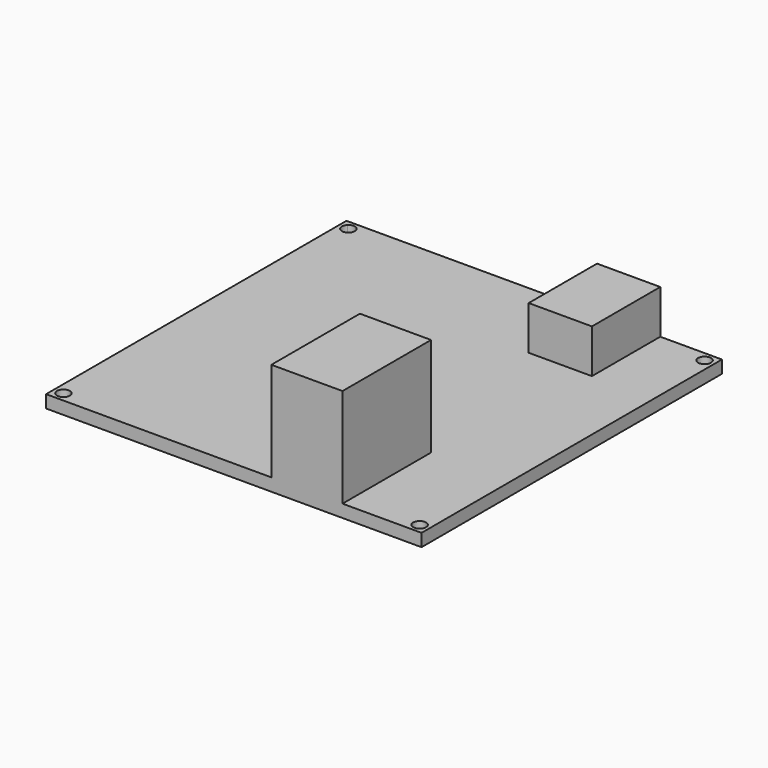
from build123d import *

# Parameters (mm, degrees)
F0_W     = 47.5
F0_H     = 47.5
F1_DEPTH = 1.6
F2_W     = 9
F2_H     = 14
F3_DEPTH = 12.54
F2_W_2   = 8
F2_H_2   = 10.806212
F4_DEPTH = 5.54
F2_R     = 0.815
F5_DEPTH = 1.6


with BuildPart() as f1:
    # F0 (on Top) → F1 (new body)
    with BuildSketch(Plane.XY):
        Rectangle(F0_W, F0_H)
    extrude(amount=F1_DEPTH)

    # F2 (on face) → F3 (join)
    with BuildSketch(Plane.XY.offset(1.6)):
        with Locations((9.25, -16.75)):
            Rectangle(F2_W, F2_H)
    extrude(amount=F3_DEPTH)

    # F2 (on face) → F4 (join)
    with BuildSketch(Plane.XY.offset(1.6)):
        with Locations((11.95, 18.346894)):
            Rectangle(F2_W_2, F2_H_2)
    extrude(amount=F4_DEPTH)

    # F2 (on face) → F5 (cut)
    with BuildSketch(Plane.XY.offset(1.6)):
        with Locations((-22.53, -22.53)):
            Circle(F2_R)
        with Locations((22.53, -22.53)):
            Circle(F2_R)
        with Locations((22.53, 22.53)):
            Circle(F2_R)
        with BuildLine():
            ThreePointArc((-21.715, 22.53), (-22.216277, 23.282199), (-23.103473, 23.109097))
            ThreePointArc((-23.103473, 23.109097), (-22.843723, 21.777801), (-21.715, 22.53))
        make_face()
    extrude(amount=-F5_DEPTH, mode=Mode.SUBTRACT)


solid = f1.part
